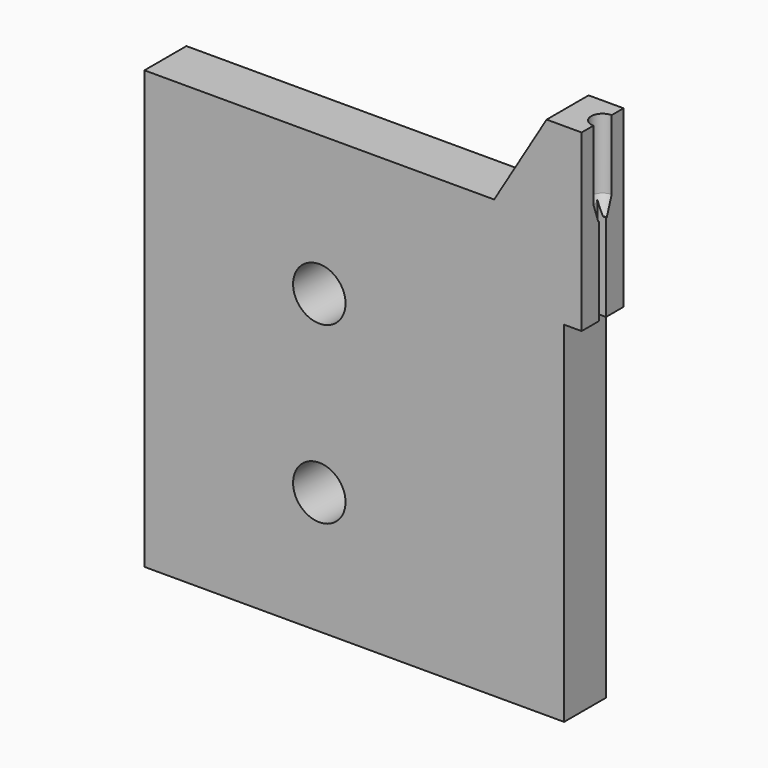
from build123d import *

# Parameters (mm, degrees)
F0_R     = 1.5
F1_DEPTH = 3
F4_W     = 0.5
F4_H     = 7.027182
F5_DEPTH = 0.5


with BuildPart() as f1:
    # F0 (on Front) → F1 (new body)
    with BuildSketch(Plane.XZ):
        Polygon((12.5, 5), (12.5, 15), (10.5, 15), (7.5, 10), (-12.5, 10), (-12.5, -15), (11.5, -15), (11.5, 5), align=None)
        with Locations((-2.5, -8)):
            Circle(F0_R, mode=Mode.SUBTRACT)
        with Locations((-2.5, 2)):
            Circle(F0_R, mode=Mode.SUBTRACT)
    extrude(amount=F1_DEPTH)

    # F2 (on face) → F3 (revolve, cut)
    with BuildSketch(Plane.YZ.offset(12.5)):
        Polygon((-0.85, 15.881686), (-1.5, 15.881686), (-1.5, 10), (-1.2, 10), (-0.85, 11), align=None)
    revolve(axis=Axis((12.5, -1.5, 3.419226), (0, 0, -1)), mode=Mode.SUBTRACT)

    # F4 (on face) → F5 (cut)
    with BuildSketch(Plane.YZ.offset(12.5)):
        with Locations((-1.5, 7.433284)):
            Rectangle(F4_W, F4_H)
    extrude(amount=-F5_DEPTH, mode=Mode.SUBTRACT)


solid = f1.part
